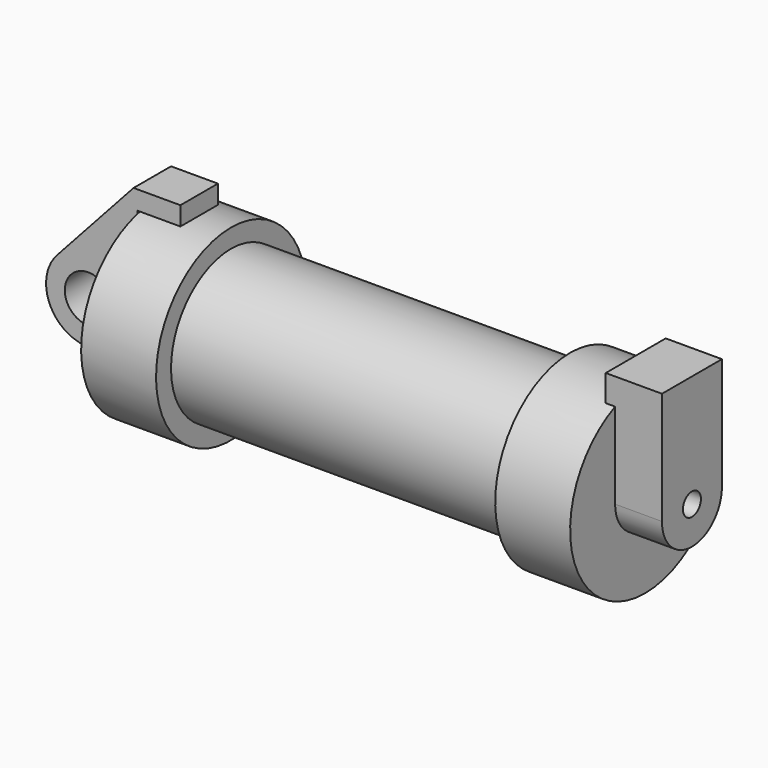
from build123d import *

# Parameters (mm, degrees)
F0_W          = 5.842
F0_H          = 12.7
F0_R          = 3.175
F2_DEPTH      = 3.175
F3_R          = 1.524
F4_DEPTH      = 1.27
F4_DEPTH_BACK = 6.35


with BuildPart() as f1:
    # F0 (on Front) → F1 (revolve)
    with BuildSketch(Plane.XZ):
        with Locations((2.921, 6.35)):
            Rectangle(F0_W, F0_H)
        Polygon((5.842, 12.7), (5.842, 0), (66.294, 0), (66.294, 12.7), (56.134, 12.7), (56.134, 10.16), (10.16, 10.16), (10.16, 12.7), align=None)
    revolve(axis=Axis((33.147, 0, 0), (-1, 0, 0)))

    # F3 (on face) → F4 (join, two sides)
    with BuildSketch(Plane.YZ.offset(66.294)) as f4_sk:
        with BuildLine():
            ThreePointArc((-5.08, 0), (0, -5.08), (5.08, 0))
            ThreePointArc((5.08, 0), (0, 5.08), (-5.08, 0))
        make_face()
        Circle(F3_R, mode=Mode.SUBTRACT)
        with BuildLine():
            ThreePointArc((-5.08, 0), (0, 5.08), (5.08, 0))
            Line((5.08, 0), (5.08, 11.6397422652))
            ThreePointArc((5.08, 11.6397422652), (0, 12.7), (-5.08, 11.6397422652))
            Line((-5.08, 11.6397422652), (-5.08, 0))
        make_face()
        with BuildLine():
            ThreePointArc((-5.08, 11.6397422652), (0, 12.7), (5.08, 11.6397422652))
            Line((5.08, 11.6397422652), (5.08, 15.24))
            Line((5.08, 15.24), (-5.08, 15.24))
            Line((-5.08, 15.24), (-5.08, 11.6397422652))
        make_face()
    extrude(amount=-F4_DEPTH)
    extrude(f4_sk.sketch, amount=F4_DEPTH_BACK)


with BuildPart() as f2:
    # F0 (on Front) → F2 (new body, symmetric)
    with BuildSketch(Plane.XZ):
        with BuildLine():
            Line((-0.9398, 0), (0, 0))
            Line((0, 0), (0, 12.7))
            Line((0, 12.7), (5.842, 12.7))
            Line((5.842, 12.7), (5.842, 15.24))
            Line((5.842, 15.24), (-0.508, 15.24))
            Line((-0.508, 15.24), (-10.8806298187, 3.8475430269))
            ThreePointArc((-10.8806298187, 3.8475430269), (-4.5919612295, 5.3297205562), (-0.9398, 0))
        make_face()
        with BuildLine():
            ThreePointArc((-8.1826630726, -5.5069827884), (-3.1957909266, -4.5493385486), (-0.9398, 0))
            ThreePointArc((-0.9398, 0), (-4.5919612295, 5.3297205562), (-10.8806298187, 3.8475430269))
            ThreePointArc((-10.8806298187, 3.8475430269), (-12.1459778134, -1.5837270034), (-8.1826630726, -5.5069827884))
        make_face()
        with Locations((-6.6548, 0)):
            Circle(F0_R, mode=Mode.SUBTRACT)
        with BuildLine():
            Line((5.842, 0), (0, 0))
            Line((0, 0), (-0.9398, 0))
            ThreePointArc((-0.9398, 0), (-3.1957909266, -4.5493385486), (-8.1826630726, -5.5069827884))
            Line((-8.1826630726, -5.5069827884), (5.842, -9.398))
            Line((5.842, -9.398), (5.842, 0))
        make_face()
    extrude(amount=F2_DEPTH, both=True)


solid = Compound([f1.part, f2.part])
